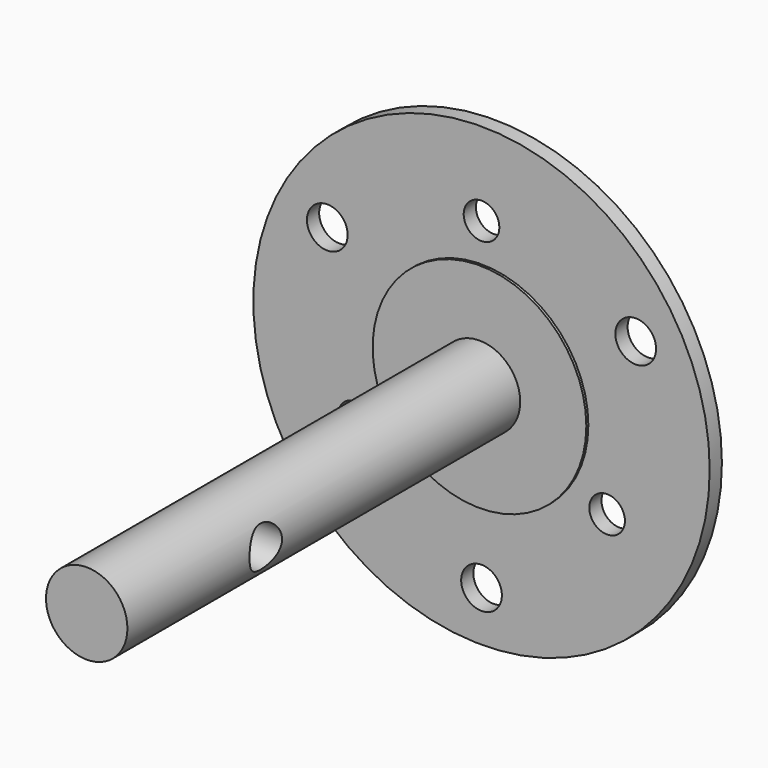
from build123d import *

# Parameters (mm, degrees)
F0_R     = 22.425
F1_DEPTH = 1.5
F2_R     = 10.5
F3_DEPTH = 0.25
F4_R     = 4
F5_DEPTH = 48.25
F7_D     = 4
F9_D     = 4
F11_D    = 3.5
F13_D    = 4


with BuildPart() as f1:
    # F0 (on Front) → F1 (new body)
    with BuildSketch(Plane.XZ):
        Circle(F0_R)
    extrude(amount=F1_DEPTH)

    # F2 (on face) → F3 (join)
    with BuildSketch(Plane.XZ.offset(1.5)):
        Circle(F2_R)
    extrude(amount=F3_DEPTH)

    # F4 (on face) → F5 (join)
    with BuildSketch(Plane.XZ.offset(1.75)):
        Circle(F4_R)
    extrude(amount=F5_DEPTH)

    # F7 (through all)
    with Locations(Plane(origin=(0, 0, 0), x_dir=(0, 1, 0), z_dir=(-1, 0, 0))):
        with Locations((-33, 0)):
            Hole(F7_D / 2)

    # F9 (through all)
    with Locations(Plane.YZ):
        with Locations((-33, 0)):
            Hole(F9_D / 2)

    # F11 (through all)
    with Locations(Plane(origin=(0, 0, 0), x_dir=(-1, 0, 0), z_dir=(0, 1, 0))):
        with Locations((0, 14.25), (-12.340862, -7.125), (12.340862, -7.125)):
            Hole(F11_D / 2)

    # F13 (through all)
    with Locations(Plane(origin=(0, 0, 0), x_dir=(-1, 0, 0), z_dir=(0, 1, 0))):
        with Locations((-15.155445, 8.75), (0, -17.5), (15.155445, 8.75)):
            Hole(F13_D / 2)


solid = f1.part
